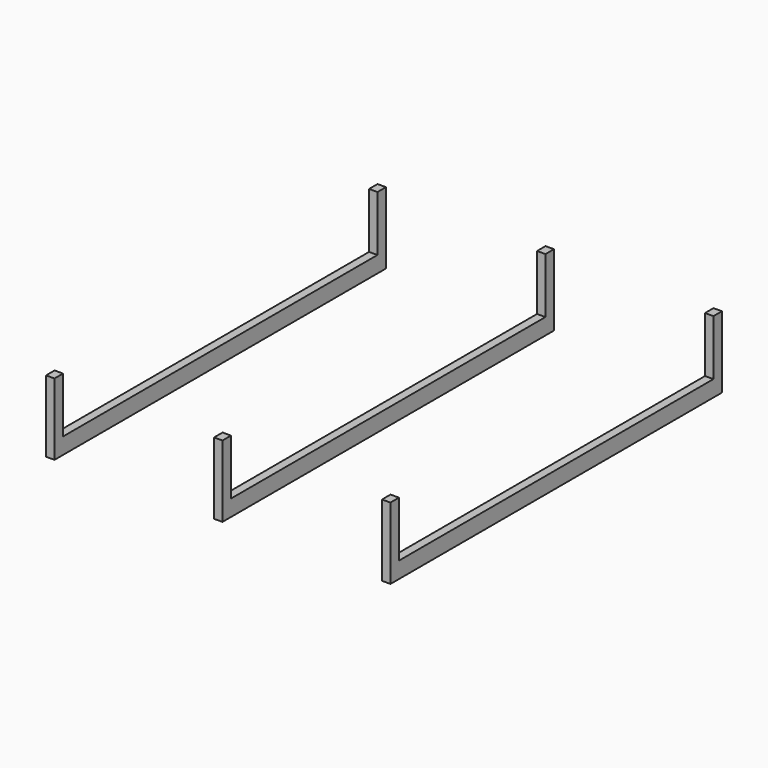
from build123d import *

# Parameters (mm, degrees)
BOX006_W      = 1.5
BOX006_H      = 70.2
BOX006_DEPTH  = 12.8
BOX003_W      = 1.5
BOX003_H      = 74
BOX003_DEPTH  = 12.8
ARRAY_X_COUNT = 3
ARRAY_X_PITCH = 30


with BuildPart() as cube005:
    # Box006 → Box006 (new body)
    with BuildSketch(Plane(origin=(0, 1.9, 2.9), x_dir=(1, 0, 0), z_dir=(0, 0, 1))):
        with Locations((0.75, 35.1)):
            Rectangle(BOX006_W, BOX006_H)
    extrude(amount=BOX006_DEPTH)


with BuildPart() as obj1:
    # Box003 → Box003 (new body)
    with BuildSketch(Plane.XY):
        with Locations((0.75, 37)):
            Rectangle(BOX003_W, BOX003_H)
    extrude(amount=BOX003_DEPTH)

    # Cut002: cut Cube005
    add(cube005.part, mode=Mode.SUBTRACT)

    # Array X: obj1 ×3


with BuildPart() as obj1_1:
    add(obj1.part)
    with Locations(*[(i * ARRAY_X_PITCH, 0, 0) for i in range(1, ARRAY_X_COUNT)]):
        add(obj1.part)


with BuildPart() as obj1_2:
    # Array placement: moved
    add(obj1_1.part.moved(Location((20, 0, 0))))


solid = obj1_2.part
